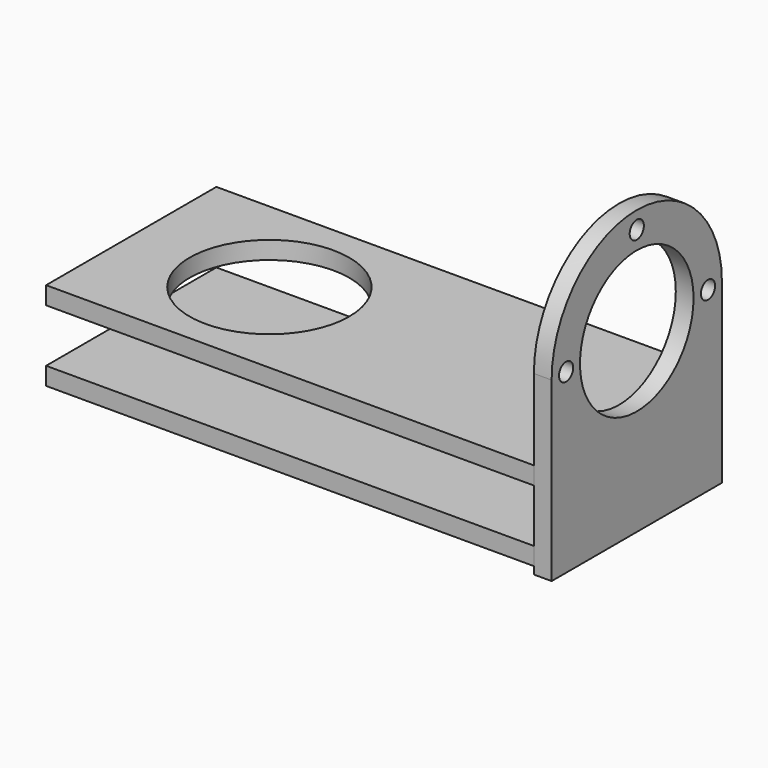
from build123d import *

# Parameters (mm, degrees)
F0_W     = 349.25
F0_H     = 152.4
F0_R     = 57.15
F1_DEPTH = 12.7
F2_W     = 349.25
F2_H     = 152.4
F2_R     = 57.15
F3_DEPTH = 12.7
F5_R     = 6.35
F5_R_2   = 50.8
F6_DEPTH = 12.7


with BuildPart() as f1:
    # F0 (on Top) → F1 (new body)
    with BuildSketch(Plane.XY):
        Rectangle(F0_W, F0_H)
        with Locations((-75.6920129061, 0)):
            Circle(F0_R, mode=Mode.SUBTRACT)
    extrude(amount=F1_DEPTH)


with BuildPart() as f3:
    # F2 (on face) → F3 (new body)
    with BuildSketch(Plane.XY.offset(12.7)):
        Rectangle(F2_W, F2_H)
        with Locations((-75.6920129061, 0)):
            Circle(F2_R, mode=Mode.SUBTRACT)
        with Locations((-75.6920129061, 0)):
            Circle(F2_R)
    extrude(amount=F3_DEPTH)


with BuildPart() as f3_1:
    # F4: moved
    add(f3.part.moved(Location((0, 0, -63.5))))


with BuildPart() as f6:
    # F5 (on Right) → F6 (new body)
    with BuildSketch(Plane.YZ):
        with BuildLine():
            Line((-76.2000009418, 70.6119884908), (-76.2000009418, -56.1339966953))
            Line((-76.2000009418, -56.1339966953), (76.1999990582, -56.1339966953))
            Line((76.1999990582, -56.1339966953), (76.1999990582, 70.6119884908))
            ThreePointArc((76.1999990582, 70.6119884908), (-9.418e-07, 146.8119884908), (-76.2000009418, 70.6119884908))
        make_face()
        with Locations((-63.2459968328, 70.6119909883)):
            Circle(F5_R, mode=Mode.SUBTRACT)
        with Locations((-9.418e-07, 70.6119884908)):
            Circle(F5_R_2, mode=Mode.SUBTRACT)
        with Locations((63.7539923191, 70.6119909883)):
            Circle(F5_R, mode=Mode.SUBTRACT)
        with Locations((-9.418e-07, 134.3660354614)):
            Circle(F5_R, mode=Mode.SUBTRACT)
    extrude(amount=F6_DEPTH)


with BuildPart() as f6_1:
    # F7: moved
    add(f6.part.moved(Location((174.625, 0, 0))))


solid = Compound([f1.part, f3_1.part, f6_1.part])
